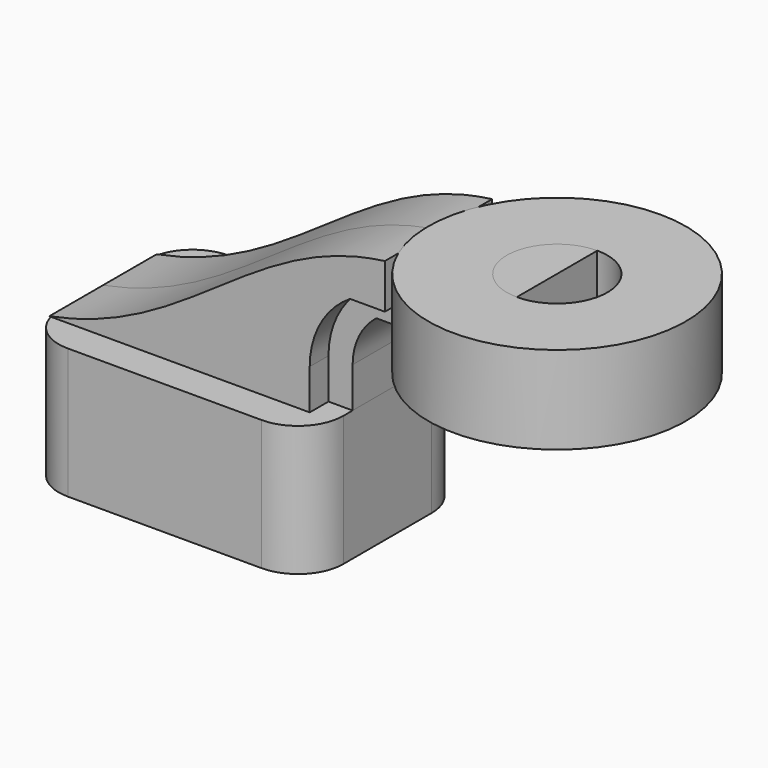
from build123d import *

# Parameters (mm, degrees)
F1_DEPTH  = 38.1
F2_DEPTH  = 19.05
F3_DEPTH  = 25.4
F4_DEPTH  = 16.51
F2_FACE_W = 44.90526
F2_FACE_H = 33.229902
F6_R      = 17.169887


with BuildPart() as f1:
    # F0 (on Front) → F1 (new body, symmetric)
    with BuildSketch(Plane.XZ):
        Polygon((44.742323, 24.697902), (-53.886324, 24.697902), (-53.886324, -24.697902), (53.886324, -24.697902), (53.886324, 24.697902), align=None)
    extrude(amount=F1_DEPTH, both=True)

    # F6
    f6_edges = [f1.edges().sort_by_distance(p)[0] for p in [
        (-53.886324, -38.1, 0),
        (53.886324, -38.1, 0),
        (53.886324, 38.1, 0),
        (-53.886324, 38.1, 0),
    ]]
    fillet(f6_edges, radius=F6_R)


with BuildPart() as f2:
    # F0 (on Front) → F2 (new body, symmetric)
    with BuildSketch(Plane.XZ):
        Polygon((118.100852, 84.42191), (73.195592, 84.42191), (73.195592, 67.520853), (73.195592, 58.376852), (73.195592, 51.192008), (118.100852, 51.192008), align=None)
    extrude(amount=F2_DEPTH, both=True)


with BuildPart() as f3:
    # F0 (on Front) → F3 (new body, symmetric)
    with BuildSketch(Plane.XZ):
        with BuildLine():
            add(Edge.make_bspline(
                [(-53.886324, 24.697902), (0, 35.026111), (22.452634, 77.686124), (73.195592, 84.42191)],
                knots=[0, 0, 0, 0, 140.416418, 140.416418, 140.416418, 140.416418], degree=3))
            Line((-53.886324, 24.697902), (44.742323, 24.697902))
            Line((44.742323, 24.697902), (44.742323, 39.965693))
            ThreePointArc((44.742323, 39.965693), (48.81269, 55.715441), (60.004416, 67.520853))
            Line((60.004416, 67.520853), (73.195592, 67.520853))
            Line((73.195592, 67.520853), (73.195592, 84.42191))
        make_face()
    extrude(amount=F3_DEPTH, both=True)


with BuildPart() as f4:
    # F0 (on Front) → F4 (new body, symmetric)
    with BuildSketch(Plane.XZ):
        with BuildLine():
            Line((44.742323, 39.965693), (44.742323, 24.697902))
            Line((44.742323, 24.697902), (53.886324, 24.697902))
            Line((53.886324, 24.697902), (53.886324, 39.965693))
            ThreePointArc((53.886324, 39.965693), (56.251291, 50.20813), (62.867373, 58.376852))
            Line((62.867373, 58.376852), (73.195592, 58.376852))
            Line((73.195592, 58.376852), (73.195592, 67.520853))
            Line((73.195592, 67.520853), (60.004416, 67.520853))
            ThreePointArc((60.004416, 67.520853), (48.81269, 55.715441), (44.742323, 39.965693))
        make_face()
    extrude(amount=F4_DEPTH, both=True)


with BuildPart() as f5:
    # F2_face (on face) → F5 (revolve)
    with BuildSketch(Plane(origin=(95.648222, -19.05, 67.806959), x_dir=(1, 0, 0), z_dir=(0, -1, 0))):
        Rectangle(F2_FACE_W, F2_FACE_H)
    revolve(axis=Axis((118.100852, 0, 67.806959), (0, 0, 1)))


solid = Compound([f1.part, f2.part, f3.part, f4.part, f5.part])
